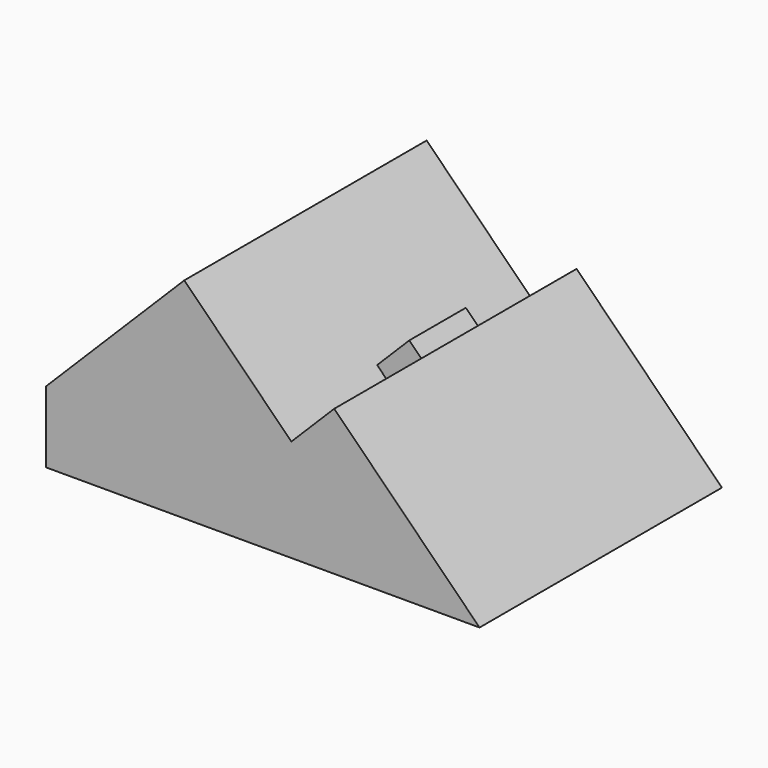
from build123d import *

# Parameters (mm, degrees)
F1_DEPTH  = 30
F2_W      = 12
F2_H      = 7
F3_DEPTH  = 38.2116781187
F5_DEPTH  = 25
F6_W      = 60.886583291
F6_H      = 11.9508793578
F7_DEPTH  = 25
F8_W      = 14
F8_H      = 9
F8_W_2    = 11
F8_H_2    = 6
F9_DEPTH  = 3.5
F10_W     = 41.5411135182
F10_H     = 24.3398016319
F11_DEPTH = 25


with BuildPart() as f1:
    # F0 (on Front) → F1 (new body, symmetric)
    with BuildSketch(Plane.XZ):
        Polygon((-8.4852813742, 41.5147186258), (-35.8526408672, 14.1473591328), (-35.8526408672, 0), (50, 0), (21.2132034356, 28.7867965644), (12.7279220614, 20.3015151902), align=None)
    extrude(amount=F1_DEPTH, both=True)

    # F2 (on face) → F3 (cut, through all)
    with BuildSketch(Plane(origin=(-3.7867965644, 0, 3.7867965644), x_dir=(0, -1, 0), z_dir=(-0.7071067812, 0, 0.7071067812))):
        with Locations((0, 29.3553390593)):
            Rectangle(F2_W, F2_H)
    extrude(amount=-F3_DEPTH, mode=Mode.SUBTRACT)

    # F4 (on Front) → F5 (cut, symmetric)
    with BuildSketch(Plane.XZ):
        with BuildLine():
            Line((31.8941702423, 0), (46.1681298912, 0))
            Line((46.1681298912, 0), (26.9125392085, 19.3730033934))
            ThreePointArc((26.9125392085, 19.3730033934), (19.7053909545, 19.0432368727), (12.7481166376, 17.1332457749))
            Line((12.7481166376, 17.1332457749), (12.7279220614, 6.3964259197))
            ThreePointArc((12.7279220614, 6.3964259197), (17.3138400367, 8.572904137), (22.2663749009, 9.6865016967))
            Line((22.2663749009, 9.6865016967), (31.8941702423, 0))
        make_face()
    extrude(amount=F5_DEPTH, both=True, mode=Mode.SUBTRACT)

    # F6 (on Front) → F7 (cut, symmetric)
    with BuildSketch(Plane.XZ):
        with Locations((-8.9317080565, 5.9754396789)):
            Rectangle(F6_W, F6_H)
    extrude(amount=F7_DEPTH, both=True, mode=Mode.SUBTRACT)

    # F8 (on face) → F9 (join, symmetric)
    with BuildSketch(Plane(origin=(-3.7867965644, 0, 3.7867965644), x_dir=(0, -1, 0), z_dir=(-0.7071067812, 0, 0.7071067812))):
        with Locations((0, 29.3553390593)):
            Rectangle(F8_W, F8_H)
        with Locations((0, 29.3553390593)):
            Rectangle(F8_W_2, F8_H_2, mode=Mode.SUBTRACT)
    extrude(amount=F9_DEPTH, both=True)

    # F10 (on Front) → F11 (cut, symmetric)
    with BuildSketch(Plane.XZ):
        with Locations((-29.2559308, 29.3487575836)):
            Rectangle(F10_W, F10_H)
    extrude(amount=F11_DEPTH, both=True, mode=Mode.SUBTRACT)


solid = f1.part
